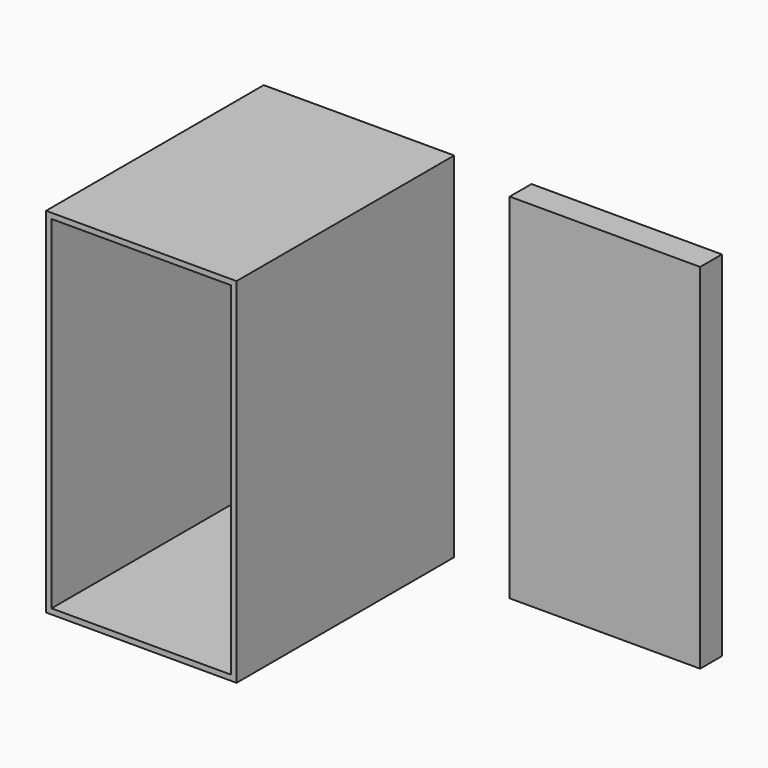
from build123d import *

# Parameters (mm, degrees)
F0_W     = 88.9
F0_H     = 165.1
F1_DEPTH = 127
F2_DEPTH = 12.7
F3_T     = -2.54


with BuildPart() as f1:
    # F0 (on Front) → F1 (new body)
    with BuildSketch(Plane.XZ):
        Rectangle(F0_W, F0_H)
    extrude(amount=F1_DEPTH)

    # F3
    f3_openings = [f1.faces().sort_by_distance(p)[0] for p in [
        (0, -127, 0),
    ]]
    offset(amount=F3_T, openings=f3_openings)


with BuildPart() as f2:
    # F0 (on Front) → F2 (new body)
    with BuildSketch(Plane.XZ):
        with Locations((124.963214, 0)):
            Rectangle(F0_W, F0_H)
    extrude(amount=F2_DEPTH)


solid = Compound([f1.part, f2.part])
